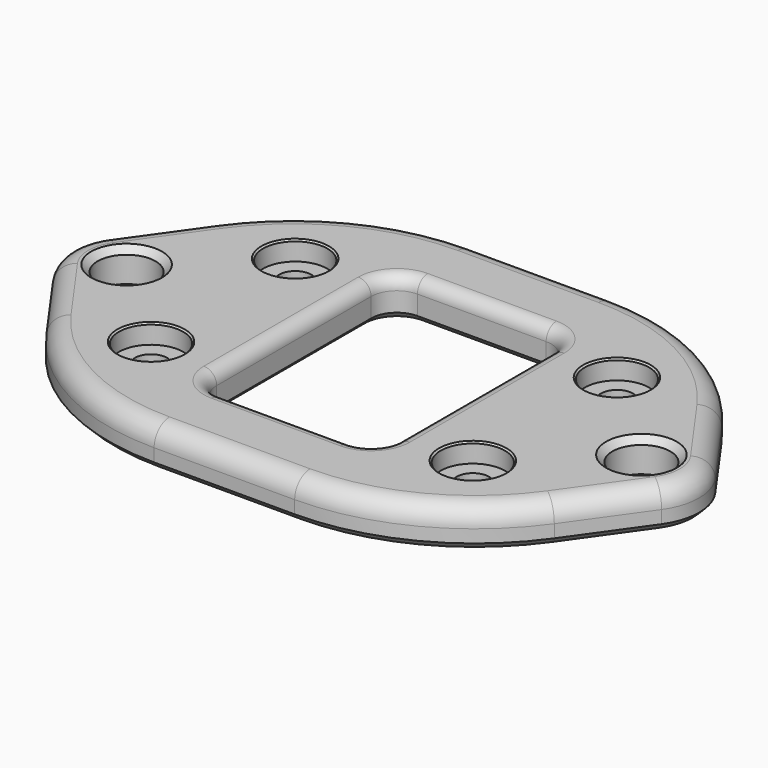
from build123d import *

# Parameters (mm, degrees)
F0_R     = 2.5
F0_R_2   = 4.5
F1_DEPTH = 6
F2_R     = 5
F3_DEPTH = 3
F4_R     = 3
F5_SIZE  = 1
F6_SIZE  = 1
F7_SIZE  = 1
F8_SIZE  = 0.25
F9_R     = 2


with BuildPart() as f1:
    # F0 (on Top) → F1 (new body)
    with BuildSketch(Plane.XY):
        with BuildLine():
            Line((-10.920631, -31), (0, -31))
            Line((0, -31), (10.920631, -31))
            ThreePointArc((10.920631, -31), (26.983553, -27.096343), (39.463381, -16.256145))
            Line((39.463381, -16.256145), (47.303487, -5.208723))
            ThreePointArc((47.303487, -5.208723), (48.963923, 0), (47.303487, 5.208723))
            Line((47.303487, 5.208723), (39.463381, 16.256145))
            ThreePointArc((39.463381, 16.256145), (26.983553, 27.096343), (10.920631, 31))
            Line((10.920631, 31), (0, 31))
            Line((0, 31), (-10.920631, 31))
            ThreePointArc((-10.920631, 31), (-26.983553, 27.096343), (-39.463381, 16.256145))
            Line((-39.463381, 16.256145), (-47.303487, 5.208723))
            ThreePointArc((-47.303487, 5.208723), (-48.963923, 0), (-47.303487, -5.208723))
            Line((-47.303487, -5.208723), (-39.463381, -16.256145))
            ThreePointArc((-39.463381, -16.256145), (-26.983553, -27.096343), (-10.920631, -31))
        make_face()
        with Locations((-25, -14)):
            Circle(F0_R, mode=Mode.SUBTRACT)
        with Locations((25, -14)):
            Circle(F0_R, mode=Mode.SUBTRACT)
        with Locations((-40, 0)):
            Circle(F0_R_2, mode=Mode.SUBTRACT)
        with Locations((-25, 14)):
            Circle(F0_R, mode=Mode.SUBTRACT)
        with BuildLine():
            Line((-10, 19), (0, 19))
            Line((0, 19), (10, 19))
            ThreePointArc((10, 19), (12.828427, 17.828427), (14, 15))
            Line((14, 15), (14, 10))
            Line((14, 10), (14, -10))
            Line((14, -10), (14, -15))
            ThreePointArc((14, -15), (12.828427, -17.828427), (10, -19))
            Line((10, -19), (0, -19))
            Line((0, -19), (-10, -19))
            ThreePointArc((-10, -19), (-12.828427, -17.828427), (-14, -15))
            Line((-14, -15), (-14, -10))
            Line((-14, -10), (-14, 10))
            Line((-14, 10), (-14, 15))
            ThreePointArc((-14, 15), (-12.828427, 17.828427), (-10, 19))
        make_face(mode=Mode.SUBTRACT)
        with Locations((40, 0)):
            Circle(F0_R_2, mode=Mode.SUBTRACT)
        with Locations((25, 14)):
            Circle(F0_R, mode=Mode.SUBTRACT)
    extrude(amount=F1_DEPTH)

    # F2 (on face) → F3 (cut)
    with BuildSketch(Plane.XY.offset(6)):
        with Locations((-25, 14)):
            Circle(F2_R)
        with Locations((25, 14)):
            Circle(F2_R)
        with Locations((25, -14)):
            Circle(F2_R)
        with Locations((-25, -14)):
            Circle(F2_R)
    extrude(amount=-F3_DEPTH, mode=Mode.SUBTRACT)

    # F4
    f4_edges = [f1.edges().sort_by_distance(p)[0] for p in [
        (0, 31, 6),
    ]]
    fillet(f4_edges, radius=F4_R)

    # F5
    f5_edges = [f1.edges().sort_by_distance(p)[0] for p in [
        (26.983553, -27.096343, 0),
    ]]
    chamfer(f5_edges, length=F5_SIZE)

    # F6
    f6_edges = [f1.edges().sort_by_distance(p)[0] for p in [
        (-14, 0, 0),
    ]]
    chamfer(f6_edges, length=F6_SIZE)

    # F7
    f7_edges = [f1.edges().sort_by_distance(p)[0] for p in [
        (-44.5, 0, 6),
        (35.5, 0, 6),
        (35.5, 0, 0),
        (-44.5, 0, 0),
    ]]
    chamfer(f7_edges, length=F7_SIZE)

    # F8
    f8_edges = [f1.edges().sort_by_distance(p)[0] for p in [
        (-30, -14, 6),
        (-30, 14, 6),
        (20, 14, 6),
        (20, -14, 6),
        (22.5, -14, 0),
        (22.5, 14, 0),
        (-27.5, 14, 0),
        (-27.5, -14, 0),
    ]]
    chamfer(f8_edges, length=F8_SIZE)

    # F9
    f9_edges = [f1.edges().sort_by_distance(p)[0] for p in [
        (0, 19, 6),
    ]]
    fillet(f9_edges, radius=F9_R)


solid = f1.part
